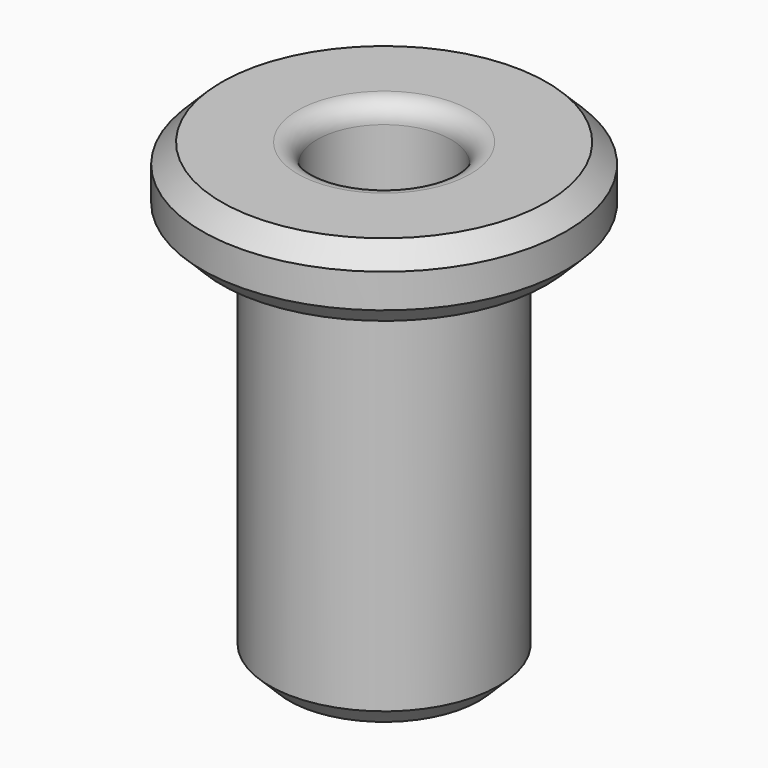
from build123d import *

# Parameters (mm, degrees)
F0_R     = 29.972
F1_DEPTH = 101.6
F2_R     = 47.625
F3_DEPTH = 19.05
F4_R     = 17.526
F5_DEPTH = 120.651
F6_SIZE  = 5.08
F7_R     = 5.08


with BuildPart() as f1:
    # F0 (on Top) → F1 (new body)
    with BuildSketch(Plane.XY):
        Circle(F0_R)
    extrude(amount=-F1_DEPTH)

    # F2 (on Top) → F3 (join)
    with BuildSketch(Plane.XY):
        Circle(F2_R)
    extrude(amount=F3_DEPTH)

    # F4 (on face) → F5 (cut, through all)
    with BuildSketch(Plane.XY.offset(19.05)):
        Circle(F4_R)
    extrude(amount=-F5_DEPTH, mode=Mode.SUBTRACT)

    # F6
    f6_edges = [f1.edges().sort_by_distance(p)[0] for p in [
        (-29.972, 0, -101.6),
        (-47.625, 0, 0),
        (-47.625, 0, 19.05),
    ]]
    chamfer(f6_edges, length=F6_SIZE)

    # F7
    f7_edges = [f1.edges().sort_by_distance(p)[0] for p in [
        (-17.526, 0, 19.05),
        (-17.526, 0, -101.6),
    ]]
    fillet(f7_edges, radius=F7_R)


solid = f1.part
